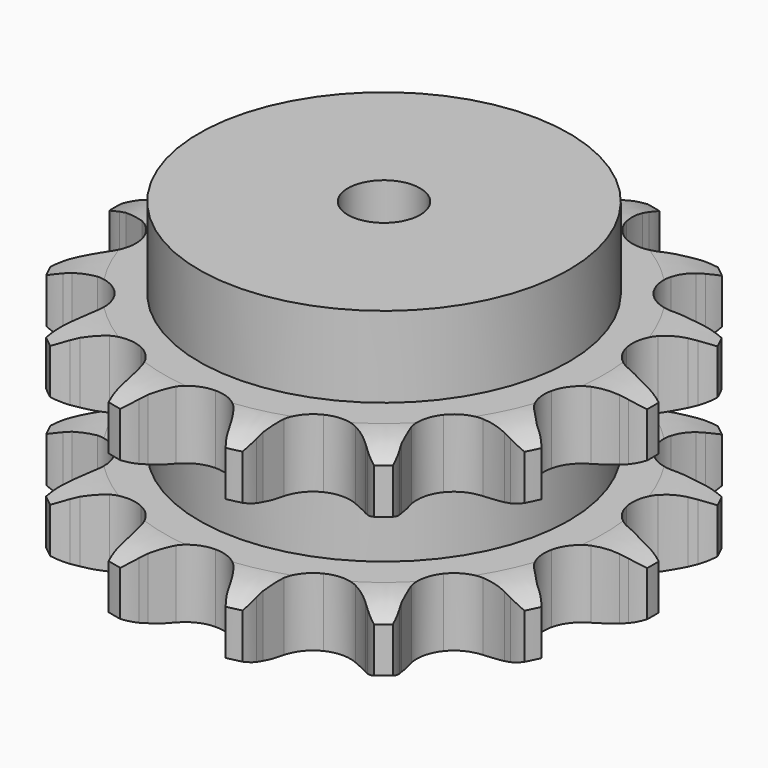
from build123d import *

# Parameters (mm, degrees)
PAD_DEPTH         = 72
SKETCH001_R       = 64
PAD001_DEPTH      = 100
SKETCH002_R       = 12.5
POCKET_DEPTH      = 0.001
POCKET_DEPTH_BACK = -100.001


with BuildPart() as part:
    # Sprocket → Pad (new body)
    with BuildSketch(Plane.XY):
        with BuildLine():
            ThreePointArc((-21.574552, 94.524288), (-18.028272, 91.02786), (-15.389802, 86.804167))
            Line((-15.389802, 86.804167), (-14.220547, 84.328992))
            ThreePointArc((-14.220547, 84.328992), (-12.273195, 80.784677), (-9.908414, 77.504105))
            ThreePointArc((-9.908414, 77.504105), (-5.482405, 74.041682), (0, 72.808323))
            ThreePointArc((0, 72.808323), (5.482405, 74.041682), (9.908414, 77.504105))
            ThreePointArc((9.908414, 77.504105), (12.273195, 80.784677), (14.220547, 84.328992))
            Line((14.220547, 84.328992), (15.389802, 86.804167))
            ThreePointArc((15.389802, 86.804167), (18.028272, 91.02786), (21.574552, 94.524288))
            ThreePointArc((21.574552, 94.524288), (23.252596, 89.835442), (23.797184, 84.885237))
            Line((23.797184, 84.885237), (23.776708, 82.14786))
            ThreePointArc((23.776708, 82.14786), (23.993392, 78.109619), (24.700598, 74.127885))
            ThreePointArc((24.700598, 74.127885), (27.186006, 69.087976), (31.590347, 65.598032))
            ThreePointArc((31.590347, 65.598032), (37.064958, 64.330524), (42.554943, 65.529686))
            Line((42.554943, 65.529686), (49.401249, 69.807732))
            ThreePointArc((49.401249, 69.807732), (50.447144, 70.691087), (51.528649, 71.530467))
            ThreePointArc((51.528649, 71.530467), (55.73842, 74.191094), (60.450551, 75.802594))
            ThreePointArc((60.450551, 75.802594), (59.928003, 70.850013), (58.270846, 66.153745))
            Line((58.270846, 66.153745), (57.064694, 63.696338))
            ThreePointArc((57.064694, 63.696338), (55.507792, 59.963993), (54.417354, 56.069729))
            ThreePointArc((54.417354, 56.069729), (54.469895, 50.45055), (56.923839, 45.395247))
            ThreePointArc((56.923839, 45.395247), (61.306341, 41.877917), (66.772944, 40.576309))
            Line((66.772944, 40.576309), (74.797427, 41.460195))
            ThreePointArc((74.797427, 41.460195), (76.123019, 41.802273), (77.461615, 42.089281))
            ThreePointArc((77.461615, 42.089281), (82.408891, 42.659871), (87.353577, 42.067266))
            ThreePointArc((87.353577, 42.067266), (84.733933, 37.83187), (81.203252, 34.319692))
            Line((81.203252, 34.319692), (79.050318, 32.628975))
            ThreePointArc((79.050318, 32.628975), (76.028194, 29.941762), (73.356085, 26.906275))
            ThreePointArc((73.356085, 26.906275), (70.965352, 21.820773), (70.982866, 16.201376))
            ThreePointArc((70.982866, 16.201376), (73.405252, 11.130875), (77.765744, 7.586296))
            Line((77.765744, 7.586296), (85.379057, 4.900957))
            ThreePointArc((85.379057, 4.900957), (86.721797, 4.634007), (88.052358, 4.311796))
            ThreePointArc((88.052358, 4.311796), (92.757269, 2.679338), (96.955156, 0))
            ThreePointArc((96.955156, 0), (92.757269, -2.679338), (88.052358, -4.311796))
            Line((88.052358, -4.311796), (85.379057, -4.900957))
            ThreePointArc((85.379057, -4.900957), (81.49028, -6.010802), (77.765744, -7.586296))
            ThreePointArc((77.765744, -7.586296), (73.405252, -11.130875), (70.982866, -16.201376))
            ThreePointArc((70.982866, -16.201376), (70.965352, -21.820773), (73.356085, -26.906275))
            Line((73.356085, -26.906275), (79.050318, -32.628975))
            ThreePointArc((79.050318, -32.628975), (80.14426, -33.452082), (81.203252, -34.319692))
            ThreePointArc((81.203252, -34.319692), (84.733933, -37.83187), (87.353577, -42.067266))
            ThreePointArc((87.353577, -42.067266), (82.408891, -42.659871), (77.461615, -42.089281))
            Line((77.461615, -42.089281), (74.797427, -41.460195))
            ThreePointArc((74.797427, -41.460195), (70.812216, -40.772852), (66.772944, -40.576309))
            ThreePointArc((66.772944, -40.576309), (61.306341, -41.877917), (56.923839, -45.395247))
            ThreePointArc((56.923839, -45.395247), (54.469895, -50.45055), (54.417354, -56.069729))
            Line((54.417354, -56.069729), (57.064694, -63.696338))
            ThreePointArc((57.064694, -63.696338), (57.693168, -64.912575), (58.270846, -66.153745))
            ThreePointArc((58.270846, -66.153745), (59.928003, -70.850013), (60.450551, -75.802594))
            ThreePointArc((60.450551, -75.802594), (55.73842, -74.191094), (51.528649, -71.530467))
            Line((51.528649, -71.530467), (49.401249, -69.807732))
            ThreePointArc((49.401249, -69.807732), (46.108924, -67.45934), (42.554943, -65.529686))
            ThreePointArc((42.554943, -65.529686), (37.064958, -64.330524), (31.590347, -65.598032))
            ThreePointArc((31.590347, -65.598032), (27.186006, -69.087976), (24.700598, -74.127885))
            Line((24.700598, -74.127885), (23.776708, -82.14786))
            ThreePointArc((23.776708, -82.14786), (23.815238, -83.516337), (23.797184, -84.885237))
            ThreePointArc((23.797184, -84.885237), (23.252596, -89.835442), (21.574552, -94.524288))
            ThreePointArc((21.574552, -94.524288), (18.028272, -91.02786), (15.389802, -86.804167))
            Line((15.389802, -86.804167), (14.220547, -84.328992))
            ThreePointArc((14.220547, -84.328992), (12.273195, -80.784677), (9.908414, -77.504105))
            ThreePointArc((9.908414, -77.504105), (5.482405, -74.041682), (0, -72.808323))
            ThreePointArc((0, -72.808323), (-5.482405, -74.041682), (-9.908414, -77.504105))
            Line((-9.908414, -77.504105), (-14.220547, -84.328992))
            ThreePointArc((-14.220547, -84.328992), (-14.779593, -85.578664), (-15.389802, -86.804167))
            ThreePointArc((-15.389802, -86.804167), (-18.028272, -91.02786), (-21.574552, -94.524288))
            ThreePointArc((-21.574552, -94.524288), (-23.252596, -89.835442), (-23.797184, -84.885237))
            Line((-23.797184, -84.885237), (-23.776708, -82.14786))
            ThreePointArc((-23.776708, -82.14786), (-23.993392, -78.109619), (-24.700598, -74.127885))
            ThreePointArc((-24.700598, -74.127885), (-27.186006, -69.087976), (-31.590347, -65.598032))
            ThreePointArc((-31.590347, -65.598032), (-37.064958, -64.330524), (-42.554943, -65.529686))
            Line((-42.554943, -65.529686), (-49.401249, -69.807732))
            ThreePointArc((-49.401249, -69.807732), (-50.447144, -70.691087), (-51.528649, -71.530467))
            ThreePointArc((-51.528649, -71.530467), (-55.73842, -74.191094), (-60.450551, -75.802594))
            ThreePointArc((-60.450551, -75.802594), (-59.928003, -70.850013), (-58.270846, -66.153745))
            Line((-58.270846, -66.153745), (-57.064694, -63.696338))
            ThreePointArc((-57.064694, -63.696338), (-55.507792, -59.963993), (-54.417354, -56.069729))
            ThreePointArc((-54.417354, -56.069729), (-54.469895, -50.45055), (-56.923839, -45.395247))
            ThreePointArc((-56.923839, -45.395247), (-61.306341, -41.877917), (-66.772944, -40.576309))
            Line((-66.772944, -40.576309), (-74.797427, -41.460195))
            ThreePointArc((-74.797427, -41.460195), (-76.123019, -41.802273), (-77.461615, -42.089281))
            ThreePointArc((-77.461615, -42.089281), (-82.408891, -42.659871), (-87.353577, -42.067266))
            ThreePointArc((-87.353577, -42.067266), (-84.733933, -37.83187), (-81.203252, -34.319692))
            Line((-81.203252, -34.319692), (-79.050318, -32.628975))
            ThreePointArc((-79.050318, -32.628975), (-76.028194, -29.941762), (-73.356085, -26.906275))
            ThreePointArc((-73.356085, -26.906275), (-70.965352, -21.820773), (-70.982866, -16.201376))
            ThreePointArc((-70.982866, -16.201376), (-73.405252, -11.130875), (-77.765744, -7.586296))
            Line((-77.765744, -7.586296), (-85.379057, -4.900957))
            ThreePointArc((-85.379057, -4.900957), (-86.721797, -4.634007), (-88.052358, -4.311796))
            ThreePointArc((-88.052358, -4.311796), (-92.757269, -2.679338), (-96.955156, 0))
            ThreePointArc((-96.955156, 0), (-92.757269, 2.679338), (-88.052358, 4.311796))
            Line((-88.052358, 4.311796), (-85.379057, 4.900957))
            ThreePointArc((-85.379057, 4.900957), (-81.49028, 6.010802), (-77.765744, 7.586296))
            ThreePointArc((-77.765744, 7.586296), (-73.405252, 11.130875), (-70.982866, 16.201376))
            ThreePointArc((-70.982866, 16.201376), (-70.965352, 21.820773), (-73.356085, 26.906275))
            Line((-73.356085, 26.906275), (-79.050318, 32.628975))
            ThreePointArc((-79.050318, 32.628975), (-80.14426, 33.452082), (-81.203252, 34.319692))
            ThreePointArc((-81.203252, 34.319692), (-84.733933, 37.83187), (-87.353577, 42.067266))
            ThreePointArc((-87.353577, 42.067266), (-82.408891, 42.659871), (-77.461615, 42.089281))
            Line((-77.461615, 42.089281), (-74.797427, 41.460195))
            ThreePointArc((-74.797427, 41.460195), (-70.812216, 40.772852), (-66.772944, 40.576309))
            ThreePointArc((-66.772944, 40.576309), (-61.306341, 41.877917), (-56.923839, 45.395247))
            ThreePointArc((-56.923839, 45.395247), (-54.469895, 50.45055), (-54.417354, 56.069729))
            Line((-54.417354, 56.069729), (-57.064694, 63.696338))
            ThreePointArc((-57.064694, 63.696338), (-57.693168, 64.912575), (-58.270846, 66.153745))
            ThreePointArc((-58.270846, 66.153745), (-59.928003, 70.850013), (-60.450551, 75.802594))
            ThreePointArc((-60.450551, 75.802594), (-55.73842, 74.191094), (-51.528649, 71.530467))
            Line((-51.528649, 71.530467), (-49.401249, 69.807732))
            ThreePointArc((-49.401249, 69.807732), (-46.108924, 67.45934), (-42.554943, 65.529686))
            ThreePointArc((-42.554943, 65.529686), (-37.064958, 64.330524), (-31.590347, 65.598032))
            ThreePointArc((-31.590347, 65.598032), (-27.186006, 69.087976), (-24.700598, 74.127885))
            Line((-24.700598, 74.127885), (-23.776708, 82.14786))
            ThreePointArc((-23.776708, 82.14786), (-23.815238, 83.516337), (-23.797184, 84.885237))
            ThreePointArc((-23.797184, 84.885237), (-23.252596, 89.835442), (-21.574552, 94.524288))
        make_face()
    extrude(amount=PAD_DEPTH)

    # Sketch → Groove (revolve, cut)
    with BuildSketch(Plane.XZ):
        with BuildLine():
            ThreePointArc((76.129437, 0), (84.847235, 1.013516), (93.1, 4))
            Line((93.1, 4), (93.1, 19.6))
            ThreePointArc((93.1, 19.6), (84.847235, 22.586484), (76.129437, 23.6))
            Line((64, 23.6), (76.129437, 23.6))
            Line((64, 48.4), (64, 23.6))
            Line((76.129437, 48.4), (64, 48.4))
            ThreePointArc((76.129437, 48.4), (84.847235, 49.413516), (93.1, 52.4))
            Line((93.1, 52.4), (93.1, 68))
            ThreePointArc((93.1, 68), (84.847235, 70.986484), (76.129437, 72))
            Line((76.129437, 72), (103.1, 72))
            Line((103.1, 72), (103.1, 0))
            Line((76.129437, 0), (103.1, 0))
        make_face()
    revolve(axis=Axis((0, 0, 0), (0, 0, 1)), mode=Mode.SUBTRACT)

    # Sketch001 → Pad001 (join)
    with BuildSketch(Plane.XY):
        Circle(SKETCH001_R)
    extrude(amount=PAD001_DEPTH)

    # Sketch002 → Pocket (cut, two sides)
    with BuildSketch(Plane.XY) as pocket_sk:
        Circle(SKETCH002_R)
    extrude(amount=-POCKET_DEPTH, mode=Mode.SUBTRACT)
    extrude(pocket_sk.sketch, amount=-POCKET_DEPTH_BACK, mode=Mode.SUBTRACT)


solid = part.part
